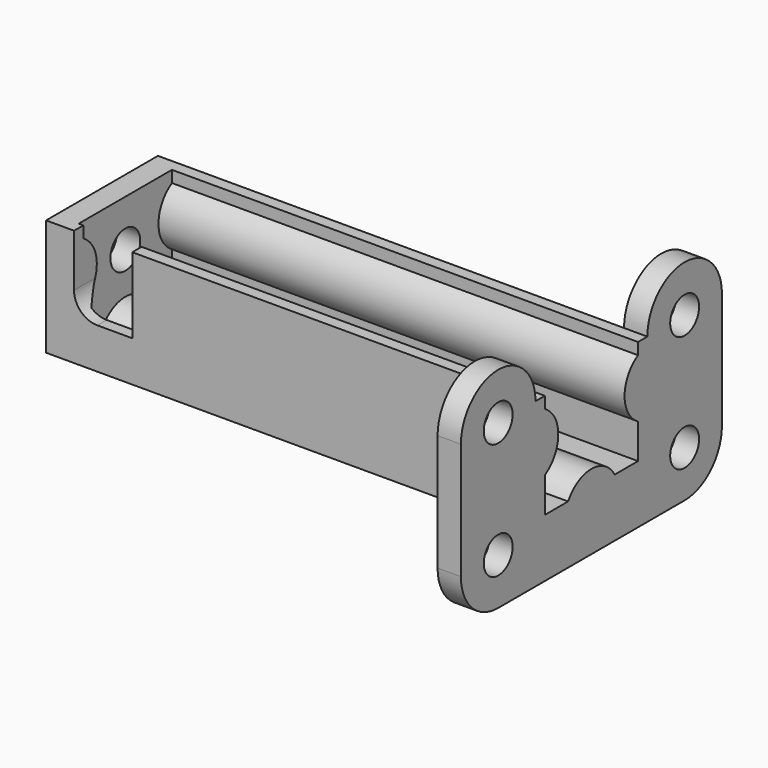
from build123d import *

# Parameters (mm, degrees)
PAD_DEPTH    = 40
SKETCH001_W  = 12
SKETCH001_H  = 10
SKETCH001_R  = 1.6
PAD001_DEPTH = 2
SKETCH002_R  = 1.55
PAD002_DEPTH = 2
POCKET_DEPTH = 5


with BuildPart() as part:
    # Sketch → Pad (new body)
    with BuildSketch(Plane.YZ):
        with BuildLine():
            Line((-5, 8), (-5, 9))
            Line((-5, 9), (-6, 9))
            Line((-6, 9), (-6, -1))
            Line((-6, -1), (6, -1))
            Line((6, -1), (6, 9))
            Line((6, 9), (5, 9))
            Line((5, 9), (5, 8))
            ThreePointArc((5, 8), (3.556624, 5.5), (5, 3))
            Line((5, 3), (5, 0))
            Line((5, 0), (2.5, 0))
            ThreePointArc((2.5, 0), (0, 1.443376), (-2.5, 0))
            Line((-2.5, 0), (-5, 0))
            Line((-5, 0), (-5, 3))
            ThreePointArc((-5, 3), (-3.556624, 5.5), (-5, 8))
        make_face()
    extrude(amount=PAD_DEPTH)

    # Sketch001 (on Face15 of Pad) → Pad001 (join)
    with BuildSketch(Plane(origin=(0, 0, 0), x_dir=(0, 1, 0), z_dir=(-1, 0, 0))):
        with Locations((0, -4)):
            Rectangle(SKETCH001_W, SKETCH001_H)
        with Locations((0, -5)):
            Circle(SKETCH001_R, mode=Mode.SUBTRACT)
    extrude(amount=PAD001_DEPTH)

    # Sketch002 (on Face5 of Pad001) → Pad002 (join)
    with BuildSketch(Plane.YZ.offset(40)):
        with BuildLine():
            ThreePointArc((-6, 9), (-10, 13), (-14, 9))
            Line((-14, 9), (-14, -1))
            ThreePointArc((-14, -1), (-12.828427, -3.828427), (-10, -5))
            Line((10, -5), (-10, -5))
            ThreePointArc((10, -5), (12.828427, -3.828427), (14, -1))
            Line((14, 9), (14, -1))
            ThreePointArc((14, 9), (10, 13), (6, 9))
            Line((5, 0), (6, 9))
            Line((-5, 0), (5, 0))
            Line((-6, 9), (-5, 0))
        make_face()
        with Locations((-10, 9)):
            Circle(SKETCH002_R, mode=Mode.SUBTRACT)
        with Locations((10, 9)):
            Circle(SKETCH002_R, mode=Mode.SUBTRACT)
        with Locations((10, -1)):
            Circle(SKETCH002_R, mode=Mode.SUBTRACT)
        with Locations((-10, -1)):
            Circle(SKETCH002_R, mode=Mode.SUBTRACT)
    extrude(amount=-PAD002_DEPTH)

    # Sketch003 (on Face7 of Pad002) → Pocket (cut)
    with BuildSketch(Plane(origin=(0, -6, 0), x_dir=(0, 0, -1), z_dir=(0, -1, 0))):
        with BuildLine():
            Line((-9, 0.4), (-4.5, 0.4))
            ThreePointArc((-4.5, 0.4), (-3.085786, 0.985786), (-2.5, 2.4))
            Line((-2.5, 2.4), (-2.5, 5.4))
            Line((-2.5, 5.4), (-9, 5.4))
            Line((-9, 5.4), (-9, 0.4))
        make_face()
    extrude(amount=-POCKET_DEPTH, mode=Mode.SUBTRACT)


solid = part.part
